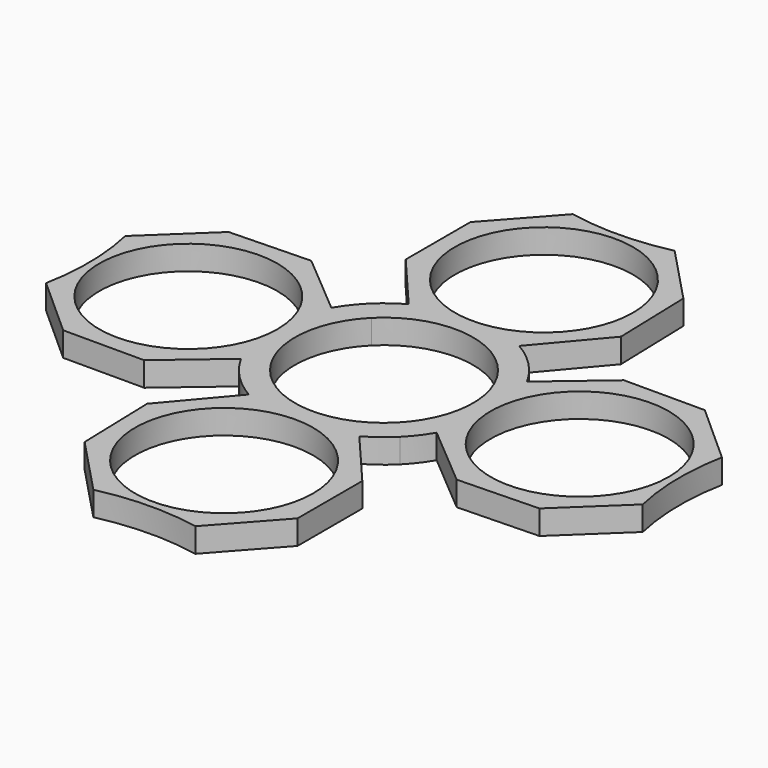
from build123d import *

# Parameters (mm, degrees)
F0_R     = 11
F1_DEPTH = 3


with BuildPart() as f1:
    # F0 (on Top) → F1 (new body)
    with BuildSketch(Plane.XY):
        with BuildLine():
            ThreePointArc((12.260471, 6.758762), (11.190713, 8.412368), (9.899495, 9.899495))
            ThreePointArc((9.899495, 9.899495), (8.529441, 11.10174), (7.014803, 12.115797))
            Line((7.014803, 12.115797), (13.47055, 19.752768))
            Line((13.47055, 19.752768), (13.184201, 29.748668))
            Line((13.184201, 29.748668), (6.301852, 37.003547))
            ThreePointArc((6.301852, 37.003547), (0.085743, 36.268282), (-6.148871, 36.825252))
            Line((-6.148871, 36.825252), (-12.820655, 29.376273))
            Line((-12.820655, 29.376273), (-12.820655, 19.376273))
            Line((-12.820655, 19.376273), (-6.758762, 12.260471))
            ThreePointArc((-6.758762, 12.260471), (-8.412368, 11.190713), (-9.899495, 9.899495))
            ThreePointArc((-9.899495, 9.899495), (-11.10174, 8.529441), (-12.115797, 7.014803))
            Line((-12.115797, 7.014803), (-19.752768, 13.47055))
            Line((-19.752768, 13.47055), (-29.748668, 13.184201))
            Line((-29.748668, 13.184201), (-37.003547, 6.301852))
            ThreePointArc((-37.003547, 6.301852), (-36.268282, 0.085743), (-36.825252, -6.148871))
            Line((-36.825252, -6.148871), (-29.376273, -12.820655))
            Line((-29.376273, -12.820655), (-19.376273, -12.820655))
            Line((-19.376273, -12.820655), (-12.260471, -6.758762))
            ThreePointArc((-12.260471, -6.758762), (-11.190713, -8.412368), (-9.899495, -9.899495))
            ThreePointArc((-9.899495, -9.899495), (-8.529441, -11.10174), (-7.014803, -12.115797))
            Line((-7.014803, -12.115797), (-13.47055, -19.752768))
            Line((-13.47055, -19.752768), (-13.184201, -29.748668))
            Line((-13.184201, -29.748668), (-6.301852, -37.003547))
            ThreePointArc((-6.301852, -37.003547), (-0.085743, -36.268282), (6.148871, -36.825252))
            Line((6.148871, -36.825252), (12.820655, -29.376273))
            Line((12.820655, -29.376273), (12.820655, -19.376273))
            Line((12.820655, -19.376273), (6.758762, -12.260471))
            ThreePointArc((6.758762, -12.260471), (8.412368, -11.190713), (9.899495, -9.899495))
            ThreePointArc((9.899495, -9.899495), (11.10174, -8.529441), (12.115797, -7.014803))
            Line((12.115797, -7.014803), (19.752768, -13.47055))
            Line((19.752768, -13.47055), (29.748668, -13.184201))
            Line((29.748668, -13.184201), (37.003547, -6.301852))
            ThreePointArc((37.003547, -6.301852), (36.268282, -0.085743), (36.825252, 6.148871))
            Line((36.825252, 6.148871), (29.376273, 12.820655))
            Line((29.376273, 12.820655), (19.376273, 12.820655))
            Line((19.376273, 12.820655), (12.260471, 6.758762))
        make_face()
        with Locations((-0.256042, -24.376267)):
            Circle(F0_R, mode=Mode.SUBTRACT)
        with Locations((24.376267, -0.256042)):
            Circle(F0_R, mode=Mode.SUBTRACT)
        with Locations((-24.376267, 0.256042)):
            Circle(F0_R, mode=Mode.SUBTRACT)
        with BuildLine():
            ThreePointArc((-7.778175, 7.778175), (0, 11), (7.778175, 7.778175))
            ThreePointArc((7.778175, 7.778175), (11, 0), (7.778175, -7.778175))
            ThreePointArc((7.778175, -7.778175), (0, -11), (-7.778175, -7.778175))
            ThreePointArc((-7.778175, -7.778175), (-11, 0), (-7.778175, 7.778175))
        make_face(mode=Mode.SUBTRACT)
        with Locations((0.256042, 24.376267)):
            Circle(F0_R, mode=Mode.SUBTRACT)
    extrude(amount=F1_DEPTH)


solid = f1.part
